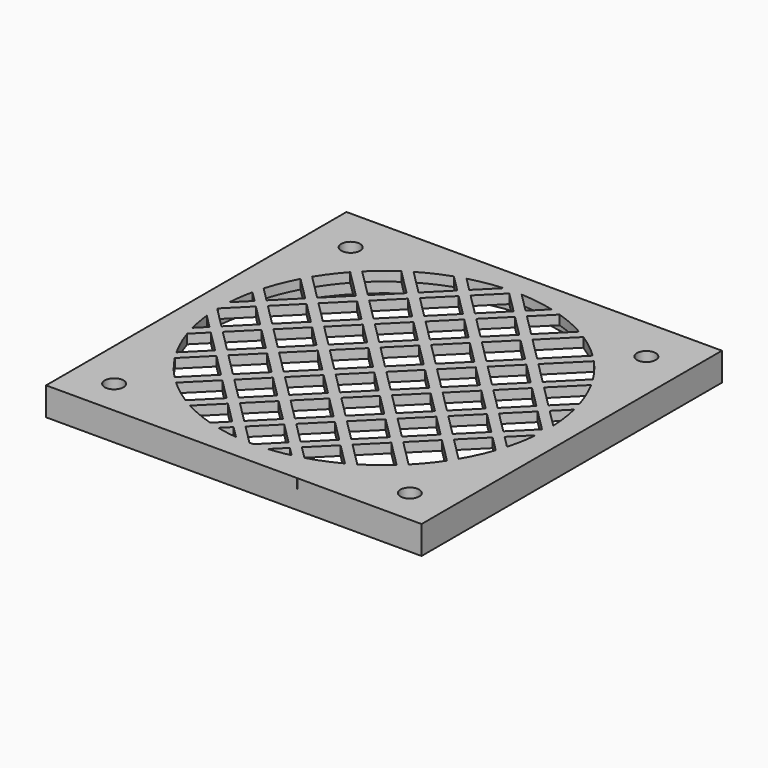
from build123d import *

# Parameters (mm, degrees)
CYLINDER016_R          = 38.5
CYLINDER016_DEPTH      = 4
CYLINDER020_R          = 2
CYLINDER020_DEPTH      = 6
CYLINDER021_R          = 2
CYLINDER021_DEPTH      = 6
CYLINDER019_R          = 2
CYLINDER019_DEPTH      = 6
CYLINDER018_R          = 2
CYLINDER018_DEPTH      = 6
CYLINDER017_R          = 35
CYLINDER017_DEPTH      = 2
BOX_W                  = 80
BOX_H                  = 80
BOX_DEPTH              = 6
BOX006_W               = 75
BOX006_H               = 2
BOX006_DEPTH           = 2
BOX006_PLACEMENT_ANGLE = 45
BOX007_W               = 75
BOX007_H               = 2
BOX007_DEPTH           = 2
BOX007_PLACEMENT_ANGLE = 45
BOX008_W               = 58
BOX008_H               = 2
BOX008_DEPTH           = 2
BOX008_PLACEMENT_ANGLE = 45
BOX009_W               = 75
BOX009_H               = 2
BOX009_DEPTH           = 2
BOX009_PLACEMENT_ANGLE = 45
BOX010_W               = 75
BOX010_H               = 2
BOX010_DEPTH           = 2
BOX010_PLACEMENT_ANGLE = 45
BOX011_W               = 75
BOX011_H               = 2
BOX011_DEPTH           = 2
BOX011_PLACEMENT_ANGLE = 45
BOX012_W               = 58
BOX012_H               = 2
BOX012_DEPTH           = 2
BOX012_PLACEMENT_ANGLE = 45
BOX013_W               = 75
BOX013_H               = 2
BOX013_DEPTH           = 2
BOX013_PLACEMENT_ANGLE = 45
BOX014_W               = 75
BOX014_H               = 2
BOX014_DEPTH           = 2
BOX014_PLACEMENT_ANGLE = 45
BOX015_W               = 58
BOX015_H               = 2
BOX015_DEPTH           = 2
BOX015_PLACEMENT_ANGLE = 45
BOX016_W               = 75
BOX016_H               = 2
BOX016_DEPTH           = 2
BOX016_PLACEMENT_ANGLE = 45
BOX017_W               = 75
BOX017_H               = 2
BOX017_DEPTH           = 2
BOX017_PLACEMENT_ANGLE = 45
BOX018_W               = 58
BOX018_H               = 2
BOX018_DEPTH           = 2
BOX018_PLACEMENT_ANGLE = 45
BOX005_W               = 75
BOX005_H               = 2
BOX005_DEPTH           = 2
BOX005_PLACEMENT_ANGLE = 45


with BuildPart() as facehole:
    # Cylinder016 → Cylinder016 (new body)
    with BuildSketch(Plane(origin=(150, 0, 0), x_dir=(1, 0, 0), z_dir=(0, 0, 1))):
        Circle(CYLINDER016_R)
    extrude(amount=CYLINDER016_DEPTH)


with BuildPart() as mounthole006:
    # Cylinder020 → Cylinder020 (new body)
    with BuildSketch(Plane(origin=(63, 63, 20), x_dir=(1, 0, 0), z_dir=(0, 0, 1))):
        Circle(CYLINDER020_R)
    extrude(amount=CYLINDER020_DEPTH)


with BuildPart() as mounthole007:
    # Cylinder021 → Cylinder021 (new body)
    with BuildSketch(Plane(origin=(0, 63, 20), x_dir=(1, 0, 0), z_dir=(0, 0, 1))):
        Circle(CYLINDER021_R)
    extrude(amount=CYLINDER021_DEPTH)


with BuildPart() as mounthole005:
    # Cylinder019 → Cylinder019 (new body)
    with BuildSketch(Plane(origin=(63, 0, 20), x_dir=(1, 0, 0), z_dir=(0, 0, 1))):
        Circle(CYLINDER019_R)
    extrude(amount=CYLINDER019_DEPTH)


with BuildPart() as facemountholes:
    # Cylinder018 → Cylinder018 (new body)
    with BuildSketch(Plane.XY.offset(20)):
        Circle(CYLINDER018_R)
    extrude(amount=CYLINDER018_DEPTH)

    # Fusion006: union MountHole006, MountHole007, MountHole005
    add(mounthole006.part)
    add(mounthole007.part)
    add(mounthole005.part)


with BuildPart() as facemountholes_1:
    # Fusion006 placement: moved
    add(facemountholes.part.moved(Location((118.5, -32.5, -20))))


with BuildPart() as obj1:
    # Cylinder017 → Cylinder017 (new body)
    with BuildSketch(Plane(origin=(150, 0, 4), x_dir=(1, 0, 0), z_dir=(0, 0, 1))):
        Circle(CYLINDER017_R)
    extrude(amount=CYLINDER017_DEPTH)

    # Fusion005: union FaceHole, FaceMountHoles
    add(facehole.part)
    add(facemountholes_1.part)


with BuildPart() as face:
    # Box → Box (new body)
    with BuildSketch(Plane(origin=(110, -40, 0), x_dir=(1, 0, 0), z_dir=(0, 0, 1))):
        with Locations((40, 40)):
            Rectangle(BOX_W, BOX_H)
    extrude(amount=BOX_DEPTH)

    # Cut009: cut obj1
    add(obj1.part, mode=Mode.SUBTRACT)


with BuildPart() as grill001:
    # Box006 → Box006 (new body)
    with BuildSketch(Plane.XY):
        with Locations((37.5, 1)):
            Rectangle(BOX006_W, BOX006_H)
    extrude(amount=BOX006_DEPTH)


with BuildPart() as grill001_1:
    # Box006 placement: moved
    add(grill001.part.moved(Location((122.5, 25, 4))).rotate(Axis((122.5, 25, 4), (0, 0, -1)), BOX006_PLACEMENT_ANGLE))


with BuildPart() as grill002:
    # Box007 → Box007 (new body)
    with BuildSketch(Plane.XY):
        with Locations((37.5, 1)):
            Rectangle(BOX007_W, BOX007_H)
    extrude(amount=BOX007_DEPTH)


with BuildPart() as grill002_1:
    # Box007 placement: moved
    add(grill002.part.moved(Location((118, -21.5, 4))).rotate(Axis((118, -21.5, 4), (0, 0, 1)), BOX007_PLACEMENT_ANGLE))


with BuildPart() as grill003:
    # Box008 → Box008 (new body)
    with BuildSketch(Plane.XY):
        with Locations((29, 1)):
            Rectangle(BOX008_W, BOX008_H)
    extrude(amount=BOX008_DEPTH)


with BuildPart() as grill003_1:
    # Box008 placement: moved
    add(grill003.part.moved(Location((112, -3.5, 4))).rotate(Axis((112, -3.5, 4), (0, 0, 1)), BOX008_PLACEMENT_ANGLE))


with BuildPart() as grill004:
    # Box009 → Box009 (new body)
    with BuildSketch(Plane.XY):
        with Locations((37.5, 1)):
            Rectangle(BOX009_W, BOX009_H)
    extrude(amount=BOX009_DEPTH)


with BuildPart() as grill004_1:
    # Box009 placement: moved
    add(grill004.part.moved(Location((112, -15.5, 4))).rotate(Axis((112, -15.5, 4), (0, 0, 1)), BOX009_PLACEMENT_ANGLE))


with BuildPart() as grill005:
    # Box010 → Box010 (new body)
    with BuildSketch(Plane.XY):
        with Locations((37.5, 1)):
            Rectangle(BOX010_W, BOX010_H)
    extrude(amount=BOX010_DEPTH)


with BuildPart() as grill005_1:
    # Box010 placement: moved
    add(grill005.part.moved(Location((128.5, 31, 4))).rotate(Axis((128.5, 31, 4), (0, 0, -1)), BOX010_PLACEMENT_ANGLE))


with BuildPart() as grill006:
    # Box011 → Box011 (new body)
    with BuildSketch(Plane.XY):
        with Locations((37.5, 1)):
            Rectangle(BOX011_W, BOX011_H)
    extrude(amount=BOX011_DEPTH)


with BuildPart() as grill006_1:
    # Box011 placement: moved
    add(grill006.part.moved(Location((134.5, 37, 4))).rotate(Axis((134.5, 37, 4), (0, 0, -1)), BOX011_PLACEMENT_ANGLE))


with BuildPart() as grill007:
    # Box012 → Box012 (new body)
    with BuildSketch(Plane.XY):
        with Locations((29, 1)):
            Rectangle(BOX012_W, BOX012_H)
    extrude(amount=BOX012_DEPTH)


with BuildPart() as grill007_1:
    # Box012 placement: moved
    add(grill007.part.moved(Location((146.5, 37, 4))).rotate(Axis((146.5, 37, 4), (0, 0, -1)), BOX012_PLACEMENT_ANGLE))


with BuildPart() as grill008:
    # Box013 → Box013 (new body)
    with BuildSketch(Plane.XY):
        with Locations((37.5, 1)):
            Rectangle(BOX013_W, BOX013_H)
    extrude(amount=BOX013_DEPTH)


with BuildPart() as grill008_1:
    # Box013 placement: moved
    add(grill008.part.moved(Location((116.5, 19, 4))).rotate(Axis((116.5, 19, 4), (0, 0, -1)), BOX013_PLACEMENT_ANGLE))


with BuildPart() as grill009:
    # Box014 → Box014 (new body)
    with BuildSketch(Plane.XY):
        with Locations((37.5, 1)):
            Rectangle(BOX014_W, BOX014_H)
    extrude(amount=BOX014_DEPTH)


with BuildPart() as grill009_1:
    # Box014 placement: moved
    add(grill009.part.moved(Location((110.5, 13, 4))).rotate(Axis((110.5, 13, 4), (0, 0, -1)), BOX014_PLACEMENT_ANGLE))


with BuildPart() as grill010:
    # Box015 → Box015 (new body)
    with BuildSketch(Plane.XY):
        with Locations((29, 1)):
            Rectangle(BOX015_W, BOX015_H)
    extrude(amount=BOX015_DEPTH)


with BuildPart() as grill010_1:
    # Box015 placement: moved
    add(grill010.part.moved(Location((110.5, 1, 4))).rotate(Axis((110.5, 1, 4), (0, 0, -1)), BOX015_PLACEMENT_ANGLE))


with BuildPart() as grill011:
    # Box016 → Box016 (new body)
    with BuildSketch(Plane.XY):
        with Locations((37.5, 1)):
            Rectangle(BOX016_W, BOX016_H)
    extrude(amount=BOX016_DEPTH)


with BuildPart() as grill011_1:
    # Box016 placement: moved
    add(grill011.part.moved(Location((130.5, -33.5, 4))).rotate(Axis((130.5, -33.5, 4), (0, 0, 1)), BOX016_PLACEMENT_ANGLE))


with BuildPart() as grill012:
    # Box017 → Box017 (new body)
    with BuildSketch(Plane.XY):
        with Locations((37.5, 1)):
            Rectangle(BOX017_W, BOX017_H)
    extrude(amount=BOX017_DEPTH)


with BuildPart() as grill012_1:
    # Box017 placement: moved
    add(grill012.part.moved(Location((136.5, -39.5, 4))).rotate(Axis((136.5, -39.5, 4), (0, 0, 1)), BOX017_PLACEMENT_ANGLE))


with BuildPart() as grill013:
    # Box018 → Box018 (new body)
    with BuildSketch(Plane.XY):
        with Locations((29, 1)):
            Rectangle(BOX018_W, BOX018_H)
    extrude(amount=BOX018_DEPTH)


with BuildPart() as grill013_1:
    # Box018 placement: moved
    add(grill013.part.moved(Location((148.5, -39.5, 4))).rotate(Axis((148.5, -39.5, 4), (0, 0, 1)), BOX018_PLACEMENT_ANGLE))


with BuildPart() as facegrill:
    # Box005 → Box005 (new body)
    with BuildSketch(Plane.XY):
        with Locations((37.5, 1)):
            Rectangle(BOX005_W, BOX005_H)
    extrude(amount=BOX005_DEPTH)


with BuildPart() as facegrill_1:
    # Box005 placement: moved
    add(facegrill.part.moved(Location((124.5, -27.5, 4))).rotate(Axis((124.5, -27.5, 4), (0, 0, 1)), BOX005_PLACEMENT_ANGLE))

    # Fusion007: union Grill001, Grill002, Grill003, Grill004, Grill005, Grill006, Grill007, Grill008, Grill009, Grill010, Grill011, Grill012, Grill013
    add(grill001_1.part)
    add(grill002_1.part)
    add(grill003_1.part)
    add(grill004_1.part)
    add(grill005_1.part)
    add(grill006_1.part)
    add(grill007_1.part)
    add(grill008_1.part)
    add(grill009_1.part)
    add(grill010_1.part)
    add(grill011_1.part)
    add(grill012_1.part)
    add(grill013_1.part)

    # Fusion009: union FACE
    add(face.part)


solid = facegrill_1.part
